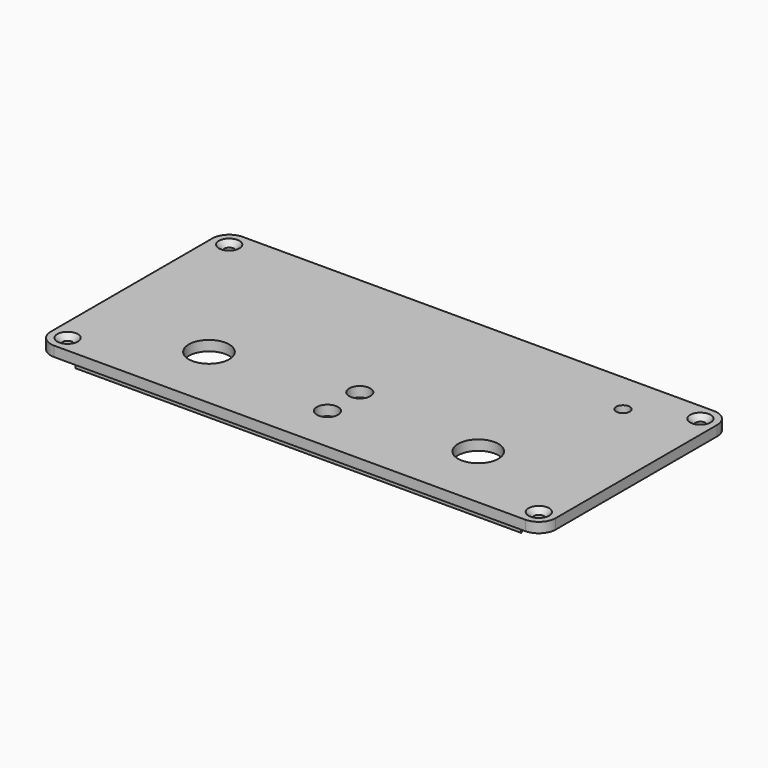
from build123d import *

# Parameters (mm, degrees)
SKETCH002_W      = 150
SKETCH002_H      = 70
PAD002_DEPTH     = 3
PAD003_DEPTH     = 3
HOLE_D           = 3
HOLE_DEPTH       = 25
HOLE_CSINK_D     = 6.1
HOLE_CSINK_ANGLE = 90
FILLET001_R      = 5
SKETCH009_R      = 6
SKETCH009_R_2    = 3.15
SKETCH009_R_3    = 2
POCKET003_DEPTH  = 5


with BuildPart() as part:
    # Sketch002 → Pad002 (new body)
    with BuildSketch(Plane.XY.offset(41)):
        Rectangle(SKETCH002_W, SKETCH002_H)
    extrude(amount=PAD002_DEPTH)

    # Sketch003 (on Face5 of Pad002) → Pad003 (join)
    with BuildSketch(Plane(origin=(0, 0, 41), x_dir=(1, 0, 0), z_dir=(0, 0, -1))):
        with BuildLine():
            Line((-66.205267, 31.8), (66.205267, 31.8))
            ThreePointArc((66.205267, 31.8), (66.043926, 28.589511), (68.2, 26.205267))
            Line((68.2, -26.205267), (68.2, 26.205267))
            ThreePointArc((68.2, -26.205267), (66.043926, -28.589511), (66.205267, -31.8))
            Line((-66.205267, -31.8), (66.205267, -31.8))
            ThreePointArc((-66.205267, -31.8), (-67.030152, -27.030152), (-71.8, -26.205267))
            Line((-71.8, 26.205267), (-71.8, -26.205267))
            ThreePointArc((-71.8, 26.205267), (-67.030152, 27.030152), (-66.205267, 31.8))
        make_face()
        with BuildLine():
            Line((-62.900704, 28.8), (62.900704, 28.8))
            ThreePointArc((62.900704, 28.8), (63.696162, 26.521261), (65.2, 24.633437))
            Line((65.2, 24.633437), (65.2, -24.633437))
            ThreePointArc((65.2, -24.633437), (63.696162, -26.521261), (62.900704, -28.8))
            Line((62.900704, -28.8), (-62.900704, -28.8))
            ThreePointArc((-62.900704, -28.8), (-64.908831, -24.908831), (-68.8, -22.900704))
            Line((-68.8, -22.900704), (-68.8, 22.900704))
            ThreePointArc((-68.8, 22.900704), (-64.908831, 24.908831), (-62.900704, 28.8))
        make_face(mode=Mode.SUBTRACT)
    extrude(amount=PAD003_DEPTH)

    # Hole
    with Locations(Plane.XY.offset(44)):
        with Locations((-70, 30), (70, 30), (70, -30), (-70, -30)):
            CounterSinkHole(HOLE_D / 2, HOLE_CSINK_D / 2, depth=HOLE_DEPTH, counter_sink_angle=HOLE_CSINK_ANGLE)

    # Fillet001
    fillet001_edges = [part.edges().sort_by_distance(p)[0] for p in [
        (-75, -35, 42.5),
        (75, -35, 42.5),
        (-75, 35, 42.5),
        (75, 35, 42.5),
    ]]
    fillet(fillet001_edges, radius=FILLET001_R)

    # Sketch009 (on Face5 of Fillet001) → Pocket003 (cut)
    with BuildSketch(Plane.XY.offset(44)):
        with Locations((40, -15)):
            Circle(SKETCH009_R)
        with Locations((-40, -15)):
            Circle(SKETCH009_R)
        with Locations((0, -9)):
            Circle(SKETCH009_R_2)
        with Locations((0, -21)):
            Circle(SKETCH009_R_2)
        with Locations((53, 22.5)):
            Circle(SKETCH009_R_3)
    extrude(amount=-POCKET003_DEPTH, mode=Mode.SUBTRACT)


solid = part.part
